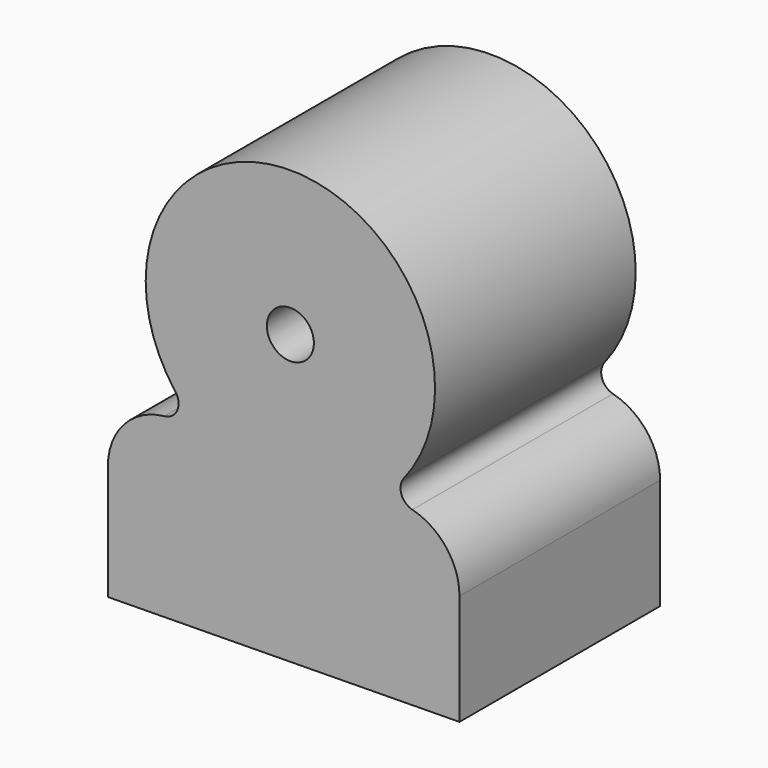
from build123d import *

# Parameters (mm, degrees)
F1_DEPTH = 101.6
F3_D     = 19.05
F4_R     = 25.4
F5_R     = 6.35


with BuildPart() as f1:
    # F0 (on Front) → F1 (new body)
    with BuildSketch(Plane.XZ):
        with BuildLine():
            Line((-130.225047, 48.010781), (-130.225047, -24.027621))
            Line((-130.225047, -24.027621), (12.208596, -22.256413))
            Line((12.208596, -22.256413), (12.208596, 48.010781))
            Line((12.208596, 48.010781), (-19.5011, 48.010781))
            ThreePointArc((-19.5011, 48.010781), (-56.295205, 152.231707), (-93.08931, 48.010781))
            Line((-93.08931, 48.010781), (-130.225047, 48.010781))
        make_face()
    extrude(amount=-F1_DEPTH)

    # F3 (through all)
    with Locations(Plane.XZ):
        with Locations((-56.295205, 93.626358)):
            Hole(F3_D / 2)

    # F4
    f4_edges = [f1.edges().sort_by_distance(p)[0] for p in [
        (-130.225047, 50.8, 48.010781),
        (12.208596, 50.8, 48.010781),
    ]]
    fillet(f4_edges, radius=F4_R)

    # F5
    f5_edges = [f1.edges().sort_by_distance(p)[0] for p in [
        (-19.5011, 50.8, 48.010781),
        (-93.08931, 50.8, 48.010781),
    ]]
    fillet(f5_edges, radius=F5_R)


solid = f1.part
